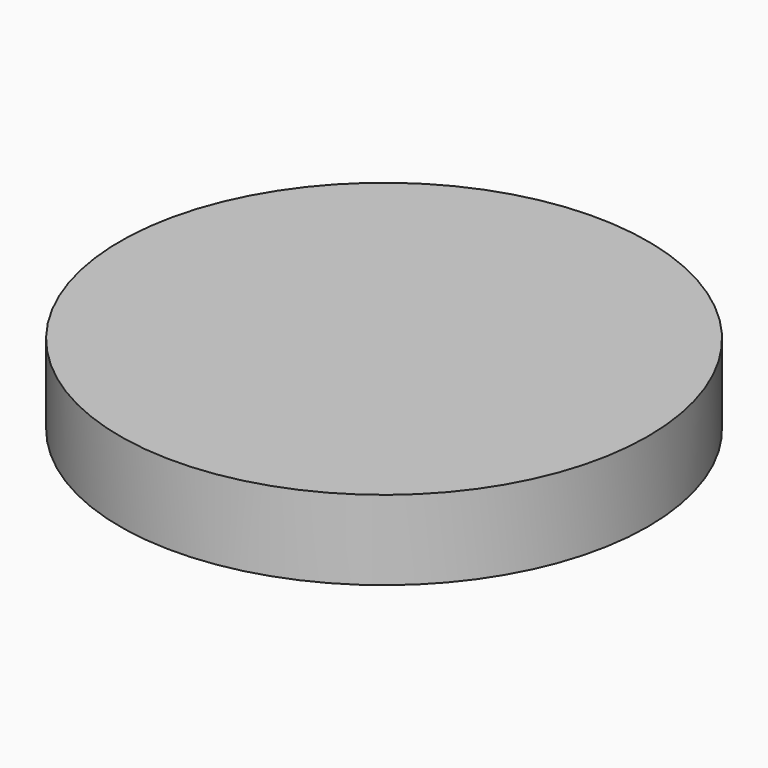
from build123d import *

# Parameters (mm, degrees)
SKETCH_R  = 33.2
PAD_DEPTH = 10


with BuildPart() as part:
    # Sketch → Pad (new body)
    with BuildSketch(Plane.XY):
        Circle(SKETCH_R)
    extrude(amount=PAD_DEPTH)


solid = part.part
